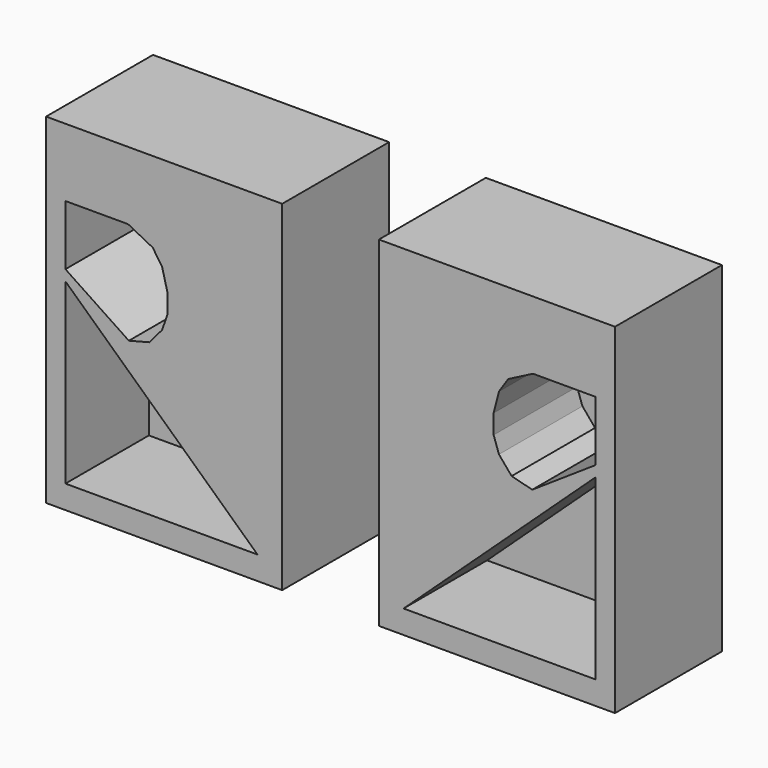
from build123d import *

# Parameters (mm, degrees)
F0_W     = 87.9613030702
F0_H     = 126.7239116132
F1_DEPTH = 49.784
F3_START = 10.922
F3_DEPTH = 59.69


with BuildPart() as f1:
    # F0 (on Front) → F1 (new body)
    with BuildSketch(Plane.XZ):
        with Locations((-61.9953265414, -1.863585785)):
            Rectangle(F0_W, F0_H)
    extrude(amount=F1_DEPTH)

    # F2 (on Front) → F3 (cut)
    with BuildSketch(Plane.XZ.offset(F3_START)):
        Polygon((-27.2083692253, -56.5288066864), (-98.7701117992, 9.8148910329), (-98.7701117992, -56.5288066864), align=None)
        Polygon((-98.7701117992, 36.153588444), (-98.7701117992, 13.7905431911), (-75.1346149577, -1.9800721771), (-67.461848259, 0), (-62.740765512, 5.5907610804), (-60.7529357076, 11.3057605922), (-60.7529357076, 18.5116305947), (-62.740765512, 26.2144580483), (-66.2194564939, 31.4324982464), (-75.4131525755, 36.153588444), align=None)
    extrude(amount=F3_DEPTH, mode=Mode.SUBTRACT)


with BuildPart() as f4_1:
    # F4: instance of F1
    add(f1.part.mirror(Plane.YZ))


solid = Compound([f1.part, f4_1.part])
